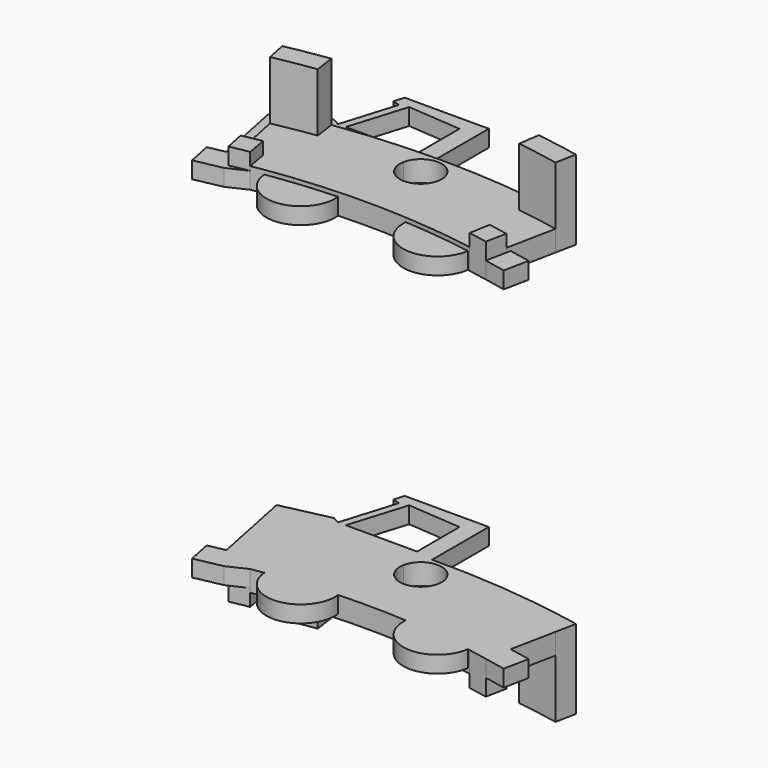
from build123d import *

# Parameters (mm, degrees)
F1_DEPTH  = 1.25
F3_DEPTH  = 4.75
F5_DEPTH  = 2
F7_DEPTH  = 1
F8_R      = 2.0605436914
F9_DEPTH  = 1
F11_DEPTH = 25


with BuildPart() as f1:
    # F0 (on Top) → F1 (new body)
    with BuildSketch(Plane.XY):
        with BuildLine():
            ThreePointArc((5.9976509575, 42.832122093), (6.6456632834, 42.7363739632), (7.2921511628, 42.6308225515))
            Line((7.2921511628, 42.6308225515), (7.5029069767, 43.8629272495))
            ThreePointArc((7.5029069767, 43.8629272495), (6.7010150496, 43.9925720697), (5.8968902794, 44.1075581395))
            ThreePointArc((5.8968902794, 44.1075581395), (5.9741669577, 43.5561736795), (6, 43))
            ThreePointArc((6, 43), (5.9994127106, 42.9160528296), (5.9976509575, 42.832122093))
        make_face()
        with BuildLine():
            Line((-7.5029069767, 43.8629272495), (-7.2921511628, 42.6308225515))
            ThreePointArc((-7.2921511628, 42.6308225515), (-6.6456632834, 42.7363739632), (-5.9976509575, 42.832122093))
            ThreePointArc((-5.9976509575, 42.832122093), (-5.9813637313, 43.4725335051), (-5.8968902794, 44.1075581395))
            ThreePointArc((-5.8968902794, 44.1075581395), (-6.7010150496, 43.9925720697), (-7.5029069767, 43.8629272495))
        make_face()
        with BuildLine():
            ThreePointArc((1.2281761729, 43.2325581395), (3.6184570865, 43.0983673509), (5.9976509575, 42.832122093))
            ThreePointArc((5.9976509575, 42.832122093), (5.9994127106, 42.9160528296), (6, 43))
            ThreePointArc((6, 43), (5.9741669577, 43.5561736795), (5.8968902794, 44.1075581395))
            ThreePointArc((5.8968902794, 44.1075581395), (0, 44.5), (-5.8968902794, 44.1075581395))
            ThreePointArc((-5.8968902794, 44.1075581395), (-5.9813637313, 43.4725335051), (-5.9976509575, 42.832122093))
            ThreePointArc((-5.9976509575, 42.832122093), (-3.6184570865, 43.0983673509), (-1.2281761729, 43.2325581395))
            ThreePointArc((-1.2281761729, 43.2325581395), (0, 44.25), (1.2281761729, 43.2325581395))
        make_face()
        with BuildLine():
            ThreePointArc((5.1487358592, 39.9193313953), (5.9687994799, 39.804973719), (6.7863372093, 39.6737712763))
            Line((6.7863372093, 39.6737712763), (7.2921511628, 42.6308225515))
            ThreePointArc((7.2921511628, 42.6308225515), (6.6456632834, 42.7363739632), (5.9976509575, 42.832122093))
            ThreePointArc((5.9976509575, 42.832122093), (5.7603447969, 41.3211826125), (5.1487358592, 39.9193313953))
        make_face()
        with BuildLine():
            ThreePointArc((-5.1487358592, 39.9193313953), (0, 40.25), (5.1487358592, 39.9193313953))
            ThreePointArc((5.1487358592, 39.9193313953), (5.7603447969, 41.3211826125), (5.9976509575, 42.832122093))
            ThreePointArc((5.9976509575, 42.832122093), (3.6184570865, 43.0983673509), (1.2281761729, 43.2325581395))
            ThreePointArc((1.2281761729, 43.2325581395), (1.244532084, 43.1167899479), (1.25, 43))
            ThreePointArc((1.25, 43), (-0.1167899479, 41.755467916), (-1.2281761729, 43.2325581395))
            ThreePointArc((-1.2281761729, 43.2325581395), (-3.6184570865, 43.0983673509), (-5.9976509575, 42.832122093))
            ThreePointArc((-5.9976509575, 42.832122093), (-5.7603447969, 41.3211826125), (-5.1487358592, 39.9193313953))
        make_face()
        with BuildLine():
            Line((-7.2921511628, 42.6308225515), (-6.7863372093, 39.6737712763))
            ThreePointArc((-6.7863372093, 39.6737712763), (-5.9687994799, 39.804973719), (-5.1487358592, 39.9193313953))
            ThreePointArc((-5.1487358592, 39.9193313953), (-5.7603447969, 41.3211826125), (-5.9976509575, 42.832122093))
            ThreePointArc((-5.9976509575, 42.832122093), (-6.6456632834, 42.7363739632), (-7.2921511628, 42.6308225515))
        make_face()
        with BuildLine():
            Line((-6.7863372093, 39.6737712763), (-6.5755813953, 38.4416665782))
            ThreePointArc((-6.5755813953, 38.4416665782), (-5.4165900946, 38.6220215906), (-4.2526993305, 38.7674418605))
            ThreePointArc((-4.2526993305, 38.7674418605), (-4.7358693269, 39.3160426552), (-5.1487358592, 39.9193313953))
            ThreePointArc((-5.1487358592, 39.9193313953), (-5.9687994799, 39.804973719), (-6.7863372093, 39.6737712763))
        make_face()
        with BuildLine():
            ThreePointArc((-4.2526993305, 38.7674418605), (0, 39), (4.2526993305, 38.7674418605))
            ThreePointArc((4.2526993305, 38.7674418605), (4.7358693269, 39.3160426552), (5.1487358592, 39.9193313953))
            ThreePointArc((5.1487358592, 39.9193313953), (0, 40.25), (-5.1487358592, 39.9193313953))
            ThreePointArc((-5.1487358592, 39.9193313953), (-4.7358693269, 39.3160426552), (-4.2526993305, 38.7674418605))
        make_face()
        with BuildLine():
            ThreePointArc((4.2526993305, 38.7674418605), (5.4165900946, 38.6220215906), (6.5755813953, 38.4416665782))
            Line((6.5755813953, 38.4416665782), (6.7863372093, 39.6737712763))
            ThreePointArc((6.7863372093, 39.6737712763), (5.9687994799, 39.804973719), (5.1487358592, 39.9193313953))
            ThreePointArc((5.1487358592, 39.9193313953), (4.7358693269, 39.3160426552), (4.2526993305, 38.7674418605))
        make_face()
        with BuildLine():
            ThreePointArc((6.7863372093, 39.6737712763), (7.3721720875, 39.5690987857), (7.9563953488, 39.4557761684))
            Line((7.9563953488, 39.4557761684), (8.5494186047, 42.3965793611))
            ThreePointArc((8.5494186046, 42.3965793611), (7.9216507524, 42.5183483846), (7.2921511628, 42.6308225515))
            Line((7.2921511628, 42.6308225515), (6.7863372093, 39.6737712763))
        make_face()
        with BuildLine():
            Line((-8.5494186047, 42.3965793611), (-7.9563953488, 39.4557761684))
            ThreePointArc((-7.9563953488, 39.4557761684), (-7.3721720874, 39.5690987857), (-6.7863372093, 39.6737712763))
            Line((-6.7863372093, 39.6737712763), (-7.2921511628, 42.6308225515))
            ThreePointArc((-7.2921511628, 42.6308225515), (-7.9216507524, 42.5183483846), (-8.5494186046, 42.3965793611))
        make_face()
    extrude(amount=F1_DEPTH)

    # F2 (on Top) → F3 (join)
    with BuildSketch(Plane.XY):
        with BuildLine():
            ThreePointArc((6.0348837209, 42.8268920011), (7.2953245865, 42.6302796047), (8.5494186046, 42.3965793611))
            Line((8.5494186047, 42.3965793611), (8.7965116279, 43.6219140247))
            ThreePointArc((8.7965116279, 43.6219140247), (7.5061721179, 43.8623686106), (6.2093023256, 44.0646634462))
            Line((6.2093023256, 44.0646634462), (6.0348837209, 42.8268920011))
        make_face()
        with BuildLine():
            Line((-8.7965116279, 43.6219140247), (-8.5494186047, 42.3965793611))
            ThreePointArc((-8.5494186046, 42.3965793611), (-7.2953245865, 42.6302796047), (-6.0348837209, 42.8268920011))
            Line((-6.0348837209, 42.8268920011), (-6.2093023256, 44.0646634462))
            ThreePointArc((-6.2093023256, 44.0646634462), (-7.5061721179, 43.8623686106), (-8.7965116279, 43.6219140247))
        make_face()
    extrude(amount=F3_DEPTH)

    # F4 (on Top) → F5 (join)
    with BuildSketch(Plane.XY):
        with BuildLine():
            Line((-7.9563953488, 39.4557761684), (-7.7093023256, 38.2304415048))
            ThreePointArc((-7.7093023256, 38.2304415048), (-7.1432226437, 38.3402447862), (-6.5755813953, 38.4416665782))
            Line((-6.5755813953, 38.4416665782), (-6.7863372093, 39.6737712763))
            ThreePointArc((-6.7863372093, 39.6737712763), (-7.3721720874, 39.5690987857), (-7.9563953488, 39.4557761684))
        make_face()
        with BuildLine():
            ThreePointArc((6.5755813953, 38.4416665782), (7.1432226437, 38.3402447862), (7.7093023256, 38.2304415048))
            Line((7.7093023256, 38.2304415048), (7.9563953488, 39.4557761684))
            ThreePointArc((7.9563953488, 39.4557761684), (7.3721720875, 39.5690987857), (6.7863372093, 39.6737712763))
            Line((6.7863372093, 39.6737712763), (6.5755813953, 38.4416665782))
        make_face()
    extrude(amount=F5_DEPTH)

    # F6 (on face) → F7 (join)
    with BuildSketch(Plane(origin=(0, 0, 0), x_dir=(1, 0, 0), z_dir=(0, 0, -1))):
        Polygon((-0.5217447377, -48.7442091179), (-0.5217447377, -44.4969412705), (-6.5731583513, -38.4420809698), (-7.7093023256, -37.909369796), (-9.3628985059, -37.5759163391), (-9.6590155736, -39.0443613106), (-8.6445802459, -39.2489257447), (-9.6590155736, -44.279512018), (-6.719536148, -44.9365638196), (-5.5569531396, -48.7442091179), align=None)
    extrude(amount=-F7_DEPTH)

    # F8 (on face) → F9 (join)
    with BuildSketch(Plane(origin=(0, 0, 0), x_dir=(1, 0, 0), z_dir=(0, 0, -1))):
        with Locations((4.4070593847, -38.7501977747)):
            Circle(F8_R)
        with Locations((-3.7710838951, -38.7311913073)):
            Circle(F8_R)
        Polygon((8.9909868032, -37.9719853443), (7.7093023256, -38.2304415048), (8.0095564031, -39.7194019143), (9.2912408808, -39.4609457538), align=None)
    extrude(amount=-F9_DEPTH)

    # F10 (on face) → F11 (cut)
    with BuildSketch(Plane(origin=(0, 0, 0), x_dir=(1, 0, 0), z_dir=(0, 0, -1))):
        Polygon((-4.8015280627, -48.1339879334), (-1.5888434136, -47.8811264038), (-1.5888434136, -44.70494017), (-5.8558285236, -44.70494017), align=None)
        Polygon((-6.3271410957, -48.4283900437), (-5.7432711196, -48.1339879334), (-5.3138671797, -48.0019627173), (-6.3205424584, -44.70494017), (-7.8752404079, -45.537494123), align=None)
    extrude(amount=-F11_DEPTH, mode=Mode.SUBTRACT)


with BuildPart() as f1_1:
    # F12: moved
    add(f1.part.moved(Location((0, 0, 10))))


with BuildPart() as f13_1:
    # F13: instance of F1
    add(f1_1.part.mirror(Plane.XY))


solid = Compound([f1_1.part, f13_1.part])
